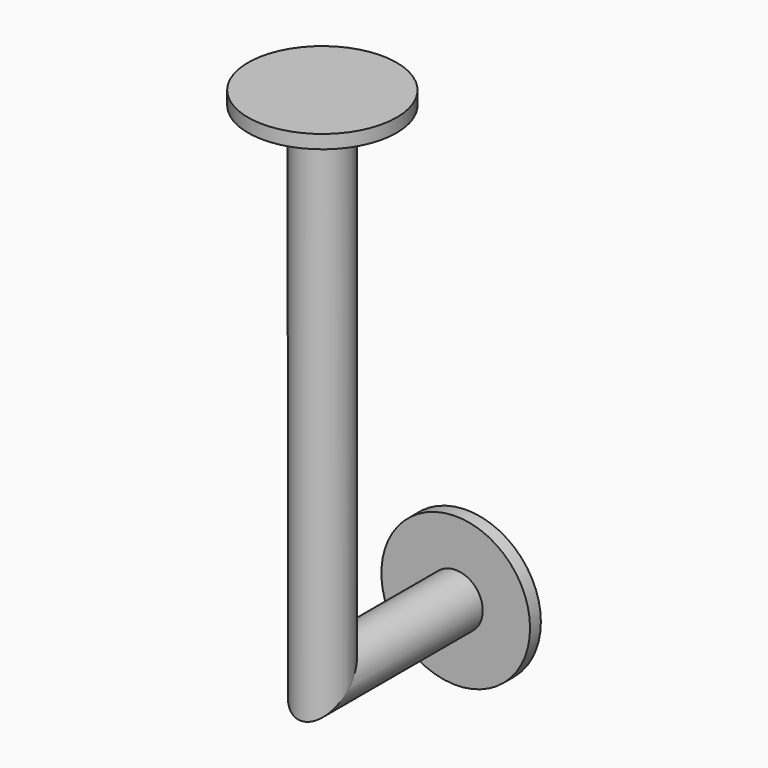
from build123d import *

# Parameters (mm, degrees)
F0_R     = 30
F0_R_2   = 82.5
F3_DEPTH = 15
F4_R     = 82.5
F4_R_2   = 30
F5_DEPTH = 15


with BuildPart() as f2:
    # F2: sweep along a path in F1
    with BuildLine(Plane.YZ) as f2_path:
        Line((0, 0), (-200, 0))
        Line((-200, 0), (-200, 574))
    # F0 (on Front) → F2 (sweep)
    with BuildSketch(Plane.XZ):
        Circle(F0_R)
    sweep(path=f2_path.line, transition=Transition.RIGHT)

    # F0 (on Front) → F3 (join)
    with BuildSketch(Plane.XZ):
        Circle(F0_R_2)
        Circle(F0_R, mode=Mode.SUBTRACT)
    extrude(amount=F3_DEPTH)

    # F4 (on face) → F5 (join)
    with BuildSketch(Plane.XY.offset(574)):
        with Locations((0, -200)):
            Circle(F4_R)
        with Locations((0, -200)):
            Circle(F4_R_2, mode=Mode.SUBTRACT)
    extrude(amount=-F5_DEPTH)


solid = f2.part
